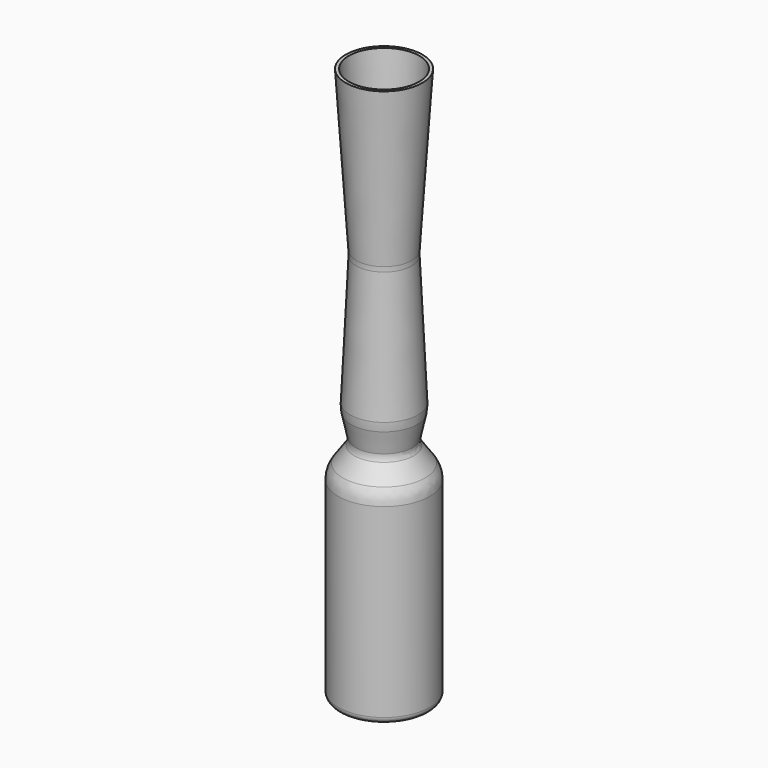
from build123d import *

# Parameters (mm, degrees)
F2_R = 3
F3_R = 1
F4_R = 4
F5_R = 5


with BuildPart() as f1:
    # F0 (on Front) → F1 (revolve)
    with BuildSketch(Plane.XZ):
        with BuildLine():
            ThreePointArc((4.315161, 0.066992), (5.031276, 0.119572), (5.375, 0.75))
            Line((5.375, 0.75), (5.375, 23.5))
            Line((5.375, 23.5), (3.25, 26.5))
            Line((3.25, 26.5), (4, 30))
            Line((4, 30), (3.25, 45.961566))
            Line((3.25, 45.961566), (4.5, 65))
            Line((4.5, 65), (4.129203, 65))
            Line((4.129203, 65), (2.87943, 45.965014))
            Line((2.87943, 45.965014), (3.56746, 31.322303))
            Line((3.56746, 31.322303), (2.501145, 26.34617))
            Line((2.501145, 26.34617), (4.875, 22.994846))
            Line((4.875, 22.994846), (4.875, 1.211355))
            ThreePointArc((4.875, 1.211355), (4.569499, 0.633107), (3.919655, 0.559588))
            ThreePointArc((3.919655, 0.559588), (1.994487, 1.113275), (0, 1.3))
            Line((0, 1.3), (0, 1))
            ThreePointArc((0, 1), (2.207437, 0.764084), (4.315161, 0.066992))
        make_face()
    revolve(axis=Axis((0, 0, 41.355611), (0, 0, 1)))

    # F2
    f2_edges = [f1.edges().sort_by_distance(p)[0] for p in [
        (-5.375, 0, 23.5),
        (-4.875, 0, 22.994846),
    ]]
    fillet(f2_edges, radius=F2_R)

    # F3
    f3_edges = [f1.edges().sort_by_distance(p)[0] for p in [
        (-3.25, 0, 26.5),
        (-2.501145, 0, 26.34617),
    ]]
    fillet(f3_edges, radius=F3_R)

    # F4
    f4_edges = [f1.edges().sort_by_distance(p)[0] for p in [
        (-4, 0, 30),
        (-3.56746, 0, 31.322303),
    ]]
    fillet(f4_edges, radius=F4_R)

    # F5
    f5_edges = [f1.edges().sort_by_distance(p)[0] for p in [
        (-3.25, 0, 45.961566),
        (-2.87943, 0, 45.965014),
    ]]
    fillet(f5_edges, radius=F5_R)


solid = f1.part
